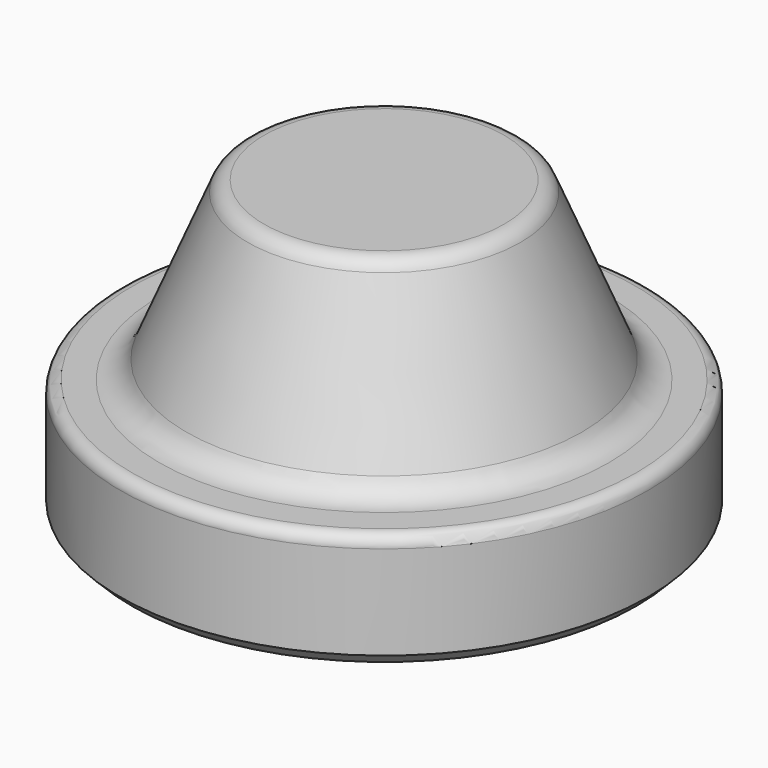
from build123d import *

# Parameters (mm, degrees)
F2_SIZE = 2


with BuildPart() as f1:
    # F0 (on Front) → F1 (revolve)
    with BuildSketch(Plane.XZ):
        with BuildLine():
            Line((20.5, 50), (0, 50))
            Line((0, 50), (0, 0))
            Line((0, 0), (45, 0))
            Line((45, 0), (45, 18))
            ThreePointArc((45, 18), (44.414214, 19.414214), (43, 20))
            Line((43, 20), (38.333333, 20))
            ThreePointArc((38.333333, 20), (35.559832, 20.839749), (33.717949, 23.076923))
            Line((33.717949, 23.076923), (23.269231, 48.153846))
            ThreePointArc((23.269231, 48.153846), (22.164101, 49.496151), (20.5, 50))
        make_face()
    revolve(axis=Axis((0, 0, 16.569998), (0, 0, 1)))

    # F2
    f2_edges = [f1.edges().sort_by_distance(p)[0] for p in [
        (-45, 0, 0),
    ]]
    chamfer(f2_edges, length=F2_SIZE)


solid = f1.part
